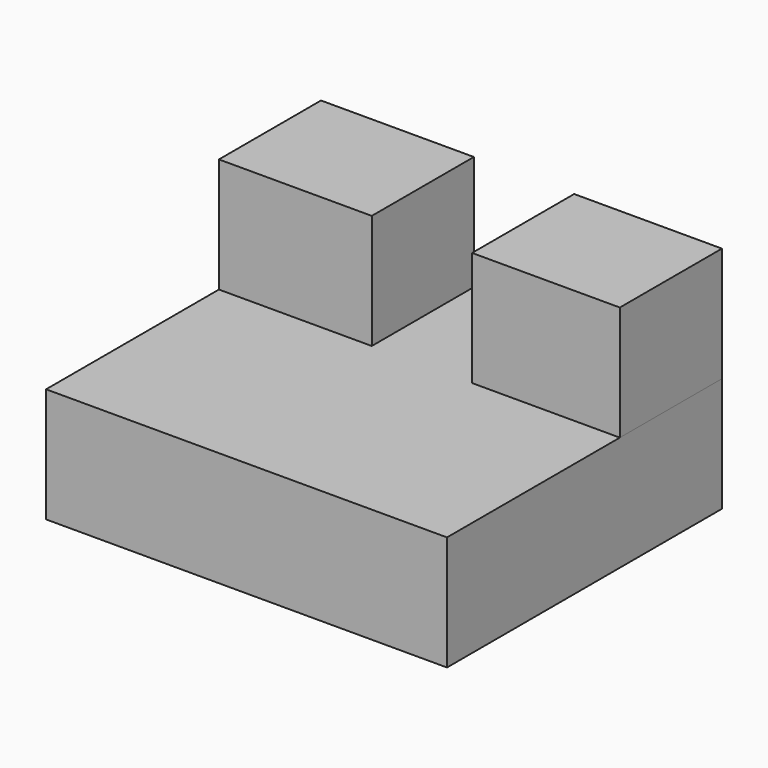
from build123d import *

# Parameters (mm, degrees)
F0_W     = 88.9
F0_H     = 76.2
F1_DEPTH = 25.4
F2_W     = 33.895806
F2_H     = 28.295222
F3_DEPTH = 25.4
F2_W_2   = 32.765687
F4_DEPTH = 25.4


with BuildPart() as f1:
    # F0 (on Top) → F1 (new body)
    with BuildSketch(Plane.XY):
        with Locations((1.73725, -6.644126)):
            Rectangle(F0_W, F0_H)
    extrude(amount=F1_DEPTH)

    # F2 (on face) → F3 (join)
    with BuildSketch(Plane.XY.offset(25.4)):
        with Locations((-25.764847, 17.308263)):
            Rectangle(F2_W, F2_H)
    extrude(amount=F3_DEPTH)

    # F2 (on face) → F4 (join)
    with BuildSketch(Plane.XY.offset(25.4)):
        with Locations((29.804406, 17.308263)):
            Rectangle(F2_W_2, F2_H)
    extrude(amount=F4_DEPTH)


solid = f1.part
